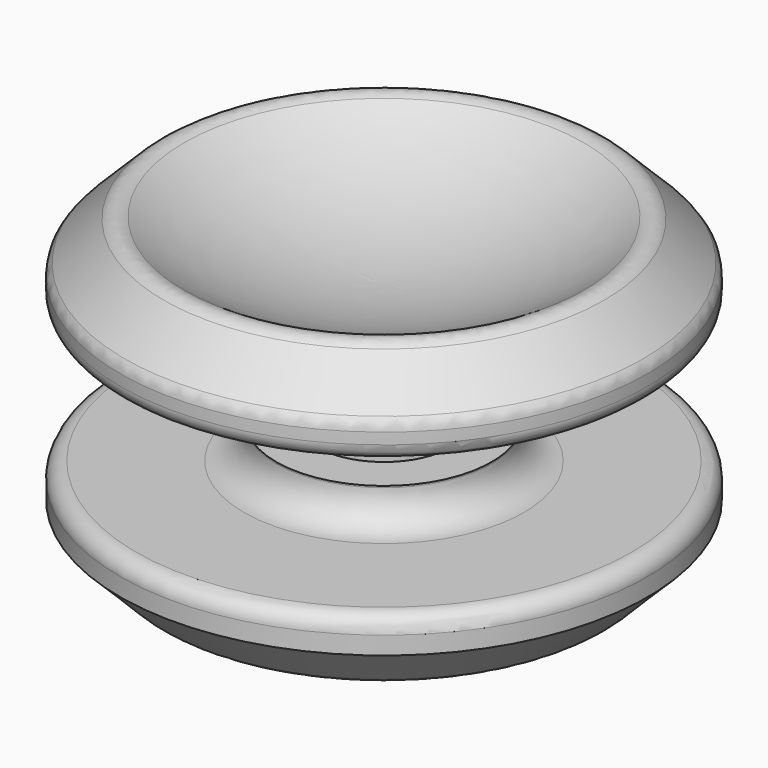
from build123d import *

# Parameters (mm, degrees)
F2_R    = 0.762
F3_R    = 0.762
F4_SIZE = 0.508
F5_R    = 1.524
F8_R    = 0.762
F9_R    = 1.524


with BuildPart() as f1:
    # F0 (on Front) → F1 (revolve)
    with BuildSketch(Plane.XZ):
        with BuildLine():
            Line((-3.175, -4.7625), (0, -4.7625))
            Line((0, -4.7625), (0, 2.54))
            ThreePointArc((0, 2.54), (-5.217057, 3.353027), (-9.939322, 5.715))
            Line((-9.939322, 5.715), (-12.446, 3.208322))
            Line((-12.446, 3.208322), (-12.446, 1.6002))
            Line((-12.446, 1.6002), (-5.08, 1.6002))
            Line((-5.08, 1.6002), (-5.08, 0))
            Line((-5.08, 0), (-3.175, 0))
            ThreePointArc((-3.175, 0), (-2.905592, -0.111592), (-2.794, -0.381))
            ThreePointArc((-2.794, -0.381), (-2.905592, -0.650408), (-3.175, -0.762))
            Line((-3.175, -0.762), (-3.175, -4.7625))
        make_face()
    revolve(axis=Axis((0, 0, -1.11125), (0, 0, -1)))

    # F2
    f2_edges = [f1.edges().sort_by_distance(p)[0] for p in [
        (12.446, 0, 1.6002),
    ]]
    fillet(f2_edges, radius=F2_R)

    # F3
    f3_edges = [f1.edges().sort_by_distance(p)[0] for p in [
        (12.446, 0, 3.208322),
        (9.939322, 0, 5.715),
    ]]
    fillet(f3_edges, radius=F3_R)

    # F4
    f4_edges = [f1.edges().sort_by_distance(p)[0] for p in [
        (3.175, 0, -4.7625),
    ]]
    chamfer(f4_edges, length=F4_SIZE)

    # F5
    f5_edges = [f1.edges().sort_by_distance(p)[0] for p in [
        (5.08, 0, 1.6002),
    ]]
    fillet(f5_edges, radius=F5_R)


with BuildPart() as f7:
    # F6 (on Front) → F7 (revolve)
    with BuildSketch(Plane.XZ):
        with BuildLine():
            Line((-3.175, -4.953), (-3.175, -3.175))
            Line((-3.175, -3.175), (-5.08, -3.175))
            Line((-5.08, -3.175), (-5.08, -4.7752))
            Line((-5.08, -4.7752), (-12.446, -4.7752))
            Line((-12.446, -4.7752), (-12.446, -6.383322))
            Line((-12.446, -6.383322), (-9.939322, -8.89))
            ThreePointArc((-9.939322, -8.89), (-5.217057, -6.528027), (0, -5.715))
            Line((0, -5.715), (0, -4.953))
            Line((0, -4.953), (-3.175, -4.953))
        make_face()
    revolve(axis=Axis((0, 0, -1.11125), (0, 0, -1)))

    # F8
    f8_edges = [f7.edges().sort_by_distance(p)[0] for p in [
        (12.446, 0, -4.7752),
        (9.939322, 0, -8.89),
    ]]
    fillet(f8_edges, radius=F8_R)

    # F9
    f9_edges = [f7.edges().sort_by_distance(p)[0] for p in [
        (5.08, 0, -4.7752),
    ]]
    fillet(f9_edges, radius=F9_R)


solid = Compound([f1.part, f7.part])
